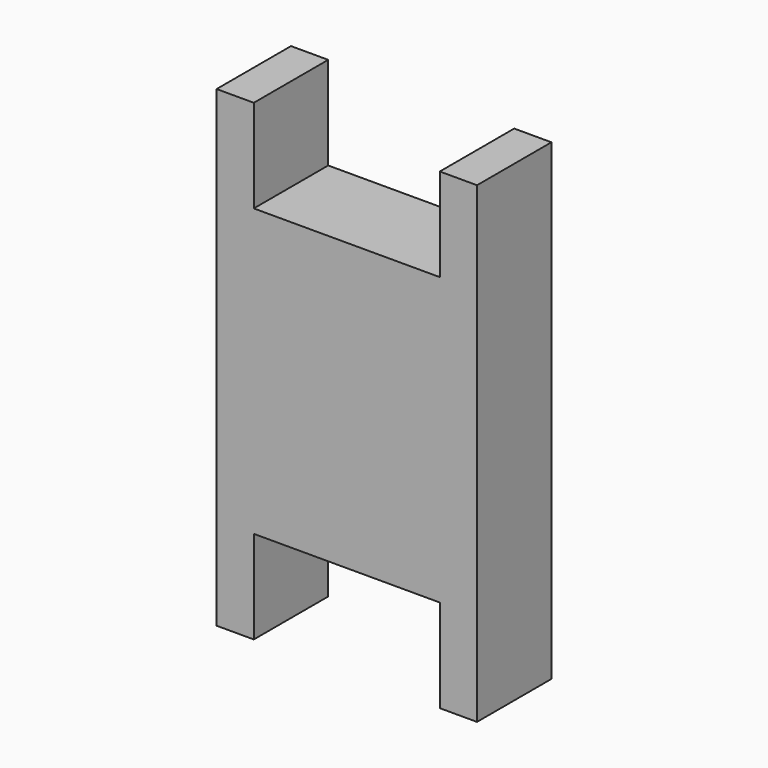
from build123d import *

# Parameters (mm, degrees)
F0_W     = 2
F0_H     = 5
F1_DEPTH = 5


with BuildPart() as f1:
    # F0 (on Front) → F1 (new body)
    with BuildSketch(Plane.XZ):
        Polygon((7, -7.7), (7, 7.7), (5, 7.7), (-5, 7.7), (-7, 7.7), (-7, -7.7), (-5, -7.7), (5, -7.7), align=None)
        with Locations((6, 10.2)):
            Rectangle(F0_W, F0_H)
        with Locations((6, -10.2)):
            Rectangle(F0_W, F0_H)
        with Locations((-6, 10.2)):
            Rectangle(F0_W, F0_H)
        with Locations((-6, -10.2)):
            Rectangle(F0_W, F0_H)
    extrude(amount=F1_DEPTH)


solid = f1.part
